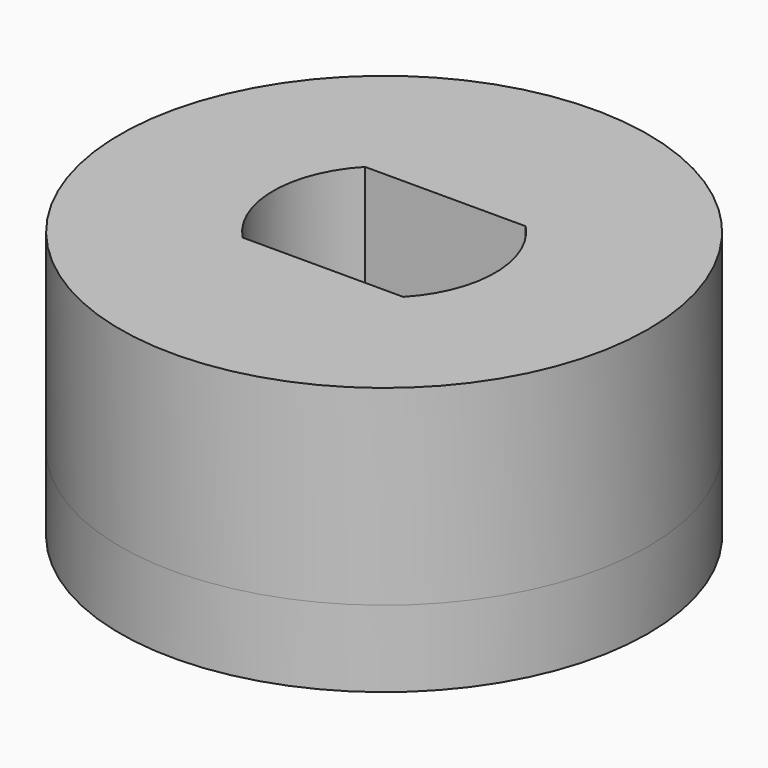
from build123d import *

# Parameters (mm, degrees)
F0_R     = 6.9
F2_DEPTH = 2
F1_R     = 6.9
F3_DEPTH = 5


with BuildPart() as f2:
    # F0 (on Top) → F2 (new body)
    with BuildSketch(Plane.XY):
        Circle(F0_R)
    extrude(amount=-F2_DEPTH)

    # F1 (on Top) → F3 (join)
    with BuildSketch(Plane.XY):
        Circle(F1_R)
        with BuildLine():
            Line((2.1, -2), (-2.1, -2))
            ThreePointArc((-2.1, -2), (-2.9, 0), (-2.1, 2))
            Line((-2.1, 2), (2.1, 2))
            ThreePointArc((2.1, 2), (2.9, 0), (2.1, -2))
        make_face(mode=Mode.SUBTRACT)
    extrude(amount=F3_DEPTH)


solid = f2.part
